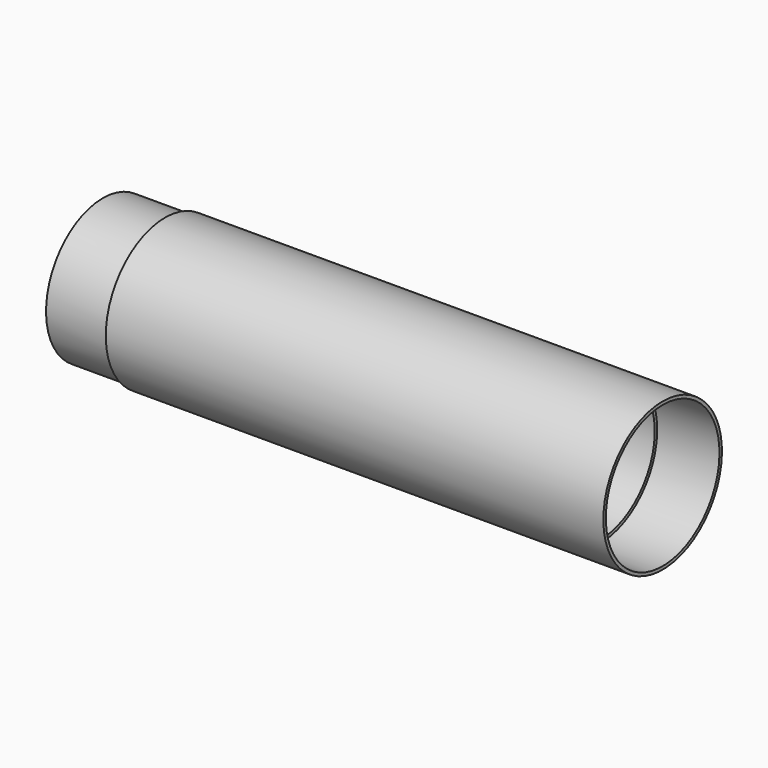
from build123d import *

# Parameters (mm, degrees)
F0_W = 10
F0_H = 0.5


with BuildPart() as f1:
    # F0 (on Front) → F1 (revolve)
    with BuildSketch(Plane.XZ):
        Polygon((0, 11.912), (-32.248389, 11.912), (-32.248389, 11.412), (-32.248389, 10.912), (0, 10.912), align=None)
        Polygon((37.701611, 11.912), (0, 11.912), (0, 10.912), (37.701611, 10.912), (37.701611, 11.412), align=None)
        with Locations((-37.248389, 11.162)):
            Rectangle(F0_W, F0_H)
        with Locations((42.701611, 11.662)):
            Rectangle(F0_W, F0_H)
    revolve(axis=Axis((18.951043, 0, 0), (1, 0, 0)))


solid = f1.part
